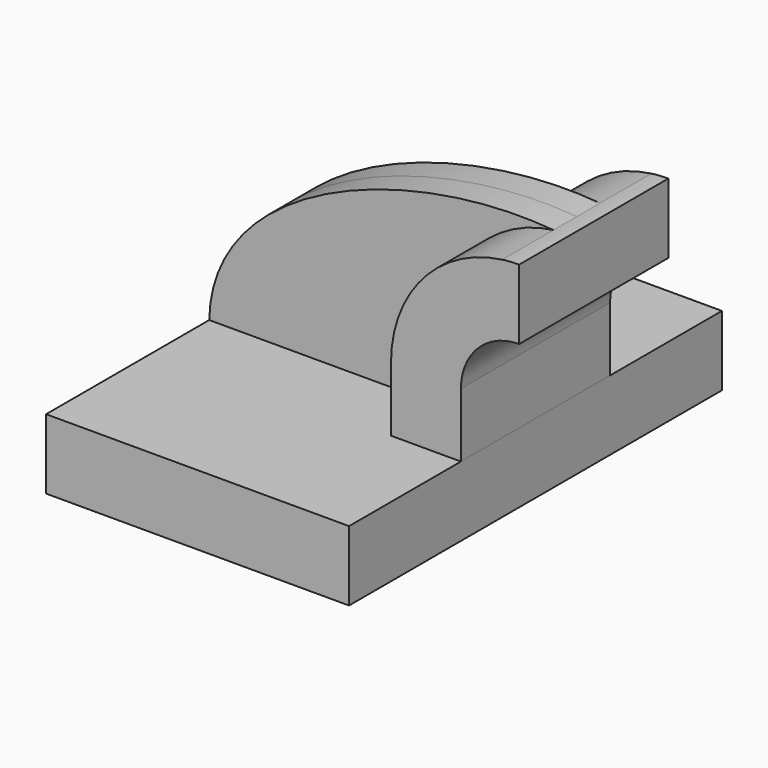
from build123d import *

# Parameters (mm, degrees)
F1_DEPTH = 63.5
F2_DEPTH = 25.4
F3_DEPTH = 7.9375


with BuildPart() as f1:
    # F0 (on Front) → F1 (new body, symmetric)
    with BuildSketch(Plane.XZ):
        Polygon((22.225, 9.525), (-41.275, 9.525), (-41.275, -9.525), (41.275, -9.525), (41.275, 9.525), align=None)
    extrude(amount=F1_DEPTH, both=True)


with BuildPart() as f2:
    # F0 (on Front) → F2 (new body, symmetric)
    with BuildSketch(Plane.XZ):
        with BuildLine():
            Line((22.225, 27.0002), (22.225, 9.525))
            Line((22.225, 9.525), (41.275, 9.525))
            Line((41.275, 9.525), (41.275, 27.0002))
            ThreePointArc((41.275, 27.0002), (45.92468, 38.22552), (57.15, 42.8752))
            Line((57.15, 42.8752), (57.15, 61.9252))
            ThreePointArc((57.15, 61.9252), (54.827081, 61.847864), (52.51445, 61.616198))
            ThreePointArc((52.51445, 61.616198), (30.866429, 49.998668), (22.225, 27.0002))
        make_face()
    extrude(amount=F2_DEPTH, both=True)


with BuildPart() as f3:
    # F0 (on Front) → F3 (new body, symmetric)
    with BuildSketch(Plane.XZ):
        with BuildLine():
            add(Edge.make_bspline(
                [(-41.275, 9.525), (-40.606309, 45.603905), (13.335578, 65.100968), (52.51445, 61.616198)],
                knots=[0, 0, 0, 0, 107.284453, 107.284453, 107.284453, 107.284453], degree=3))
            Line((-41.275, 9.525), (22.225, 9.525))
            Line((22.225, 9.525), (22.225, 27.0002))
            ThreePointArc((22.225, 27.0002), (30.866429, 49.998668), (52.51445, 61.616198))
        make_face()
    extrude(amount=F3_DEPTH, both=True)


solid = Compound([f1.part, f2.part, f3.part])
